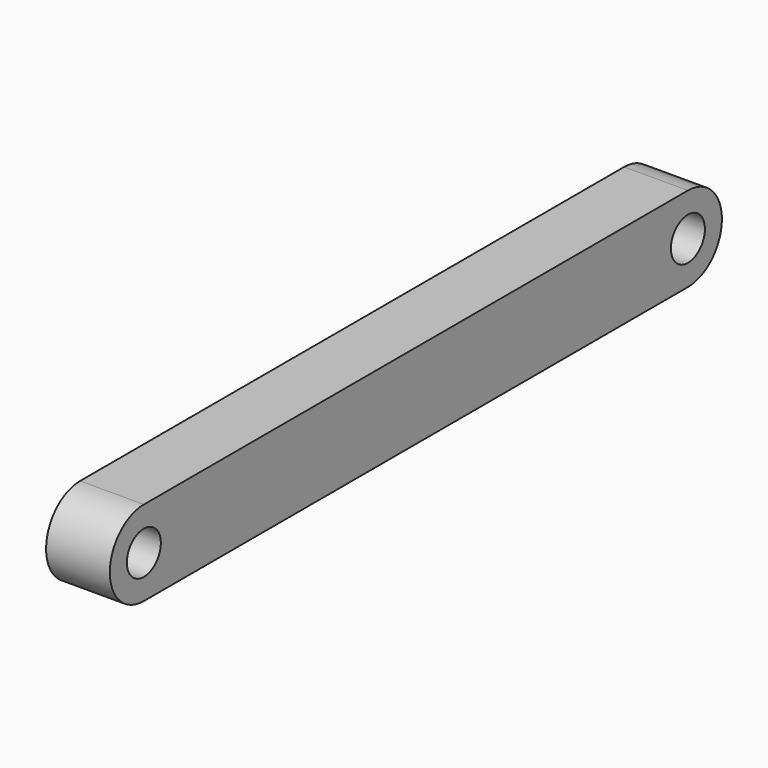
from build123d import *

# Parameters (mm, degrees)
F0_R     = 1.5875
F1_DEPTH = 4.7625


with BuildPart() as f1:
    # F0 (on Right) → F1 (new body)
    with BuildSketch(Plane.YZ):
        with BuildLine():
            ThreePointArc((0, 3.175), (2.245064, 2.245064), (3.175, 0))
            ThreePointArc((3.175, 0), (2.245064, -2.245064), (0, -3.175))
            Line((0, -3.175), (50.8, -3.175))
            ThreePointArc((50.8, -3.175), (47.625, 0), (50.8, 3.175))
            Line((50.8, 3.175), (0, 3.175))
        make_face()
        with BuildLine():
            ThreePointArc((0, -3.175), (2.245064, -2.245064), (3.175, 0))
            ThreePointArc((3.175, 0), (2.245064, 2.245064), (0, 3.175))
            ThreePointArc((0, 3.175), (-3.175, 0), (0, -3.175))
        make_face()
        Circle(F0_R, mode=Mode.SUBTRACT)
        with BuildLine():
            ThreePointArc((53.975, 0), (53.045064, 2.245064), (50.8, 3.175))
            ThreePointArc((50.8, 3.175), (47.625, 0), (50.8, -3.175))
            ThreePointArc((50.8, -3.175), (53.045064, -2.245064), (53.975, 0))
        make_face()
        with Locations((50.8, 0)):
            Circle(F0_R, mode=Mode.SUBTRACT)
    extrude(amount=F1_DEPTH)


solid = f1.part
